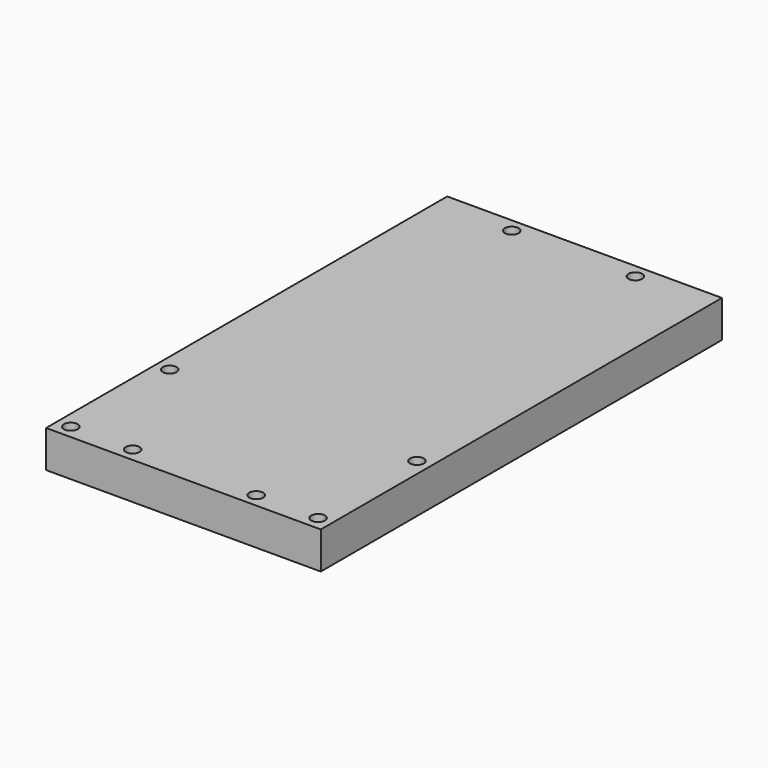
from build123d import *

# Parameters (mm, degrees)
F0_W     = 200
F0_H     = 365
F0_R     = 5
F1_DEPTH = 27


with BuildPart() as f1:
    # F0 (on Top) → F1 (new body)
    with BuildSketch(Plane.XY):
        with Locations((0, 182.5)):
            Rectangle(F0_W, F0_H)
        with Locations((-90, 10)):
            Circle(F0_R, mode=Mode.SUBTRACT)
        with Locations((-45, 10)):
            Circle(F0_R, mode=Mode.SUBTRACT)
        with Locations((-90, 100)):
            Circle(F0_R, mode=Mode.SUBTRACT)
        with Locations((45, 10)):
            Circle(F0_R, mode=Mode.SUBTRACT)
        with Locations((90, 10)):
            Circle(F0_R, mode=Mode.SUBTRACT)
        with Locations((90, 100)):
            Circle(F0_R, mode=Mode.SUBTRACT)
        with Locations((-45, 355)):
            Circle(F0_R, mode=Mode.SUBTRACT)
        with Locations((45, 355)):
            Circle(F0_R, mode=Mode.SUBTRACT)
    extrude(amount=F1_DEPTH)


solid = f1.part
